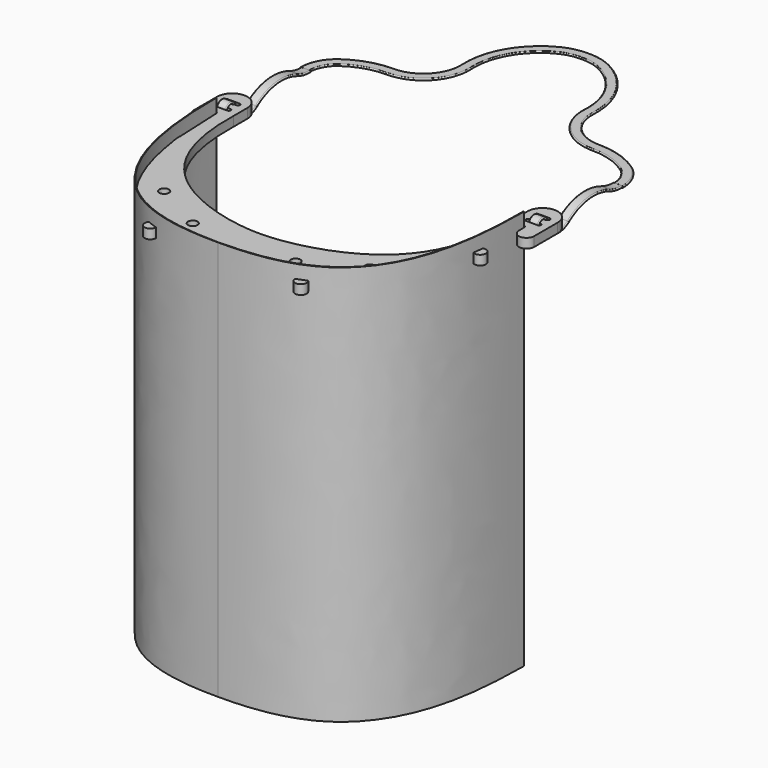
from build123d import *

# Parameters (mm, degrees)
PAD002_DEPTH    = 210
PAD_DEPTH       = 5
POCKET_DEPTH    = 5.001
SKETCH137_R     = 3
PAD001_DEPTH    = 5
SKETCH_R        = 2.5
POCKET001_DEPTH = 5.001


with BuildPart() as body002:
    # Sketch140 → Pad002 (new body)
    with BuildSketch(Plane.XY):
        with BuildLine():
            Line((-81, 99.342728), (-80.626823, 99.342728))
            add(Edge.make_bspline(
                [(-80.626823, 99.342728), (-80.850729, 69.137091), (-77.239233, 38.134273), (-65.453101, 12.273247), (-44.560585, 0), (0, -0.267526)],
                knots=[0, 0, 0, 0, 0, 0, 1, 1, 1, 1, 1, 1], degree=5))
            Line((0, -0.267526), (0, -0.467526))
            add(Edge.make_bspline(
                [(-81, 99.342728), (-80.7194, 75), (-76.49971, 47.584915), (-65, 24), (-48.451324, 8), (-24.26185, 0.239096), (-7.207305, -0.527014), (0, -0.467526)],
                knots=[0, 0, 0, 0, 0.2, 0.4, 0.6, 0.8, 1, 1, 1, 1], degree=3))
        make_face()
    extrude(amount=-PAD002_DEPTH)


with BuildPart() as body002_1:
    # Body002 placement: moved
    add(body002.part.moved(Location((0, 0, 12))))


with BuildPart() as fusion001:
    # Part__Mirroring001: instance of Body002
    add(body002_1.part.mirror(Plane(origin=(0, 0, 0), x_dir=(0, -1, 0), z_dir=(1, 0, 0))))

    # Fusion001: union Body002
    add(body002_1.part)


with BuildPart() as body:
    # Sketch135 → Pad (new body)
    with BuildSketch(Plane.XY):
        with BuildLine():
            add(Edge.make_bspline(
                [(-73.5, 101.839707), (-74.771, 49.44), (-49.529, 37.339707), (-22.686, 26.780106), (0, 26.839707)],
                knots=[0, 0, 0, 0, 0, 1, 1, 1, 1, 1], degree=4))
            Line((0, 26.839707), (0, 0))
            add(Edge.make_bspline(
                [(0, 0), (-24.669, -0.204), (-39, 6.04)],
                knots=[0, 0, 0, 1, 1, 1], degree=2))
            add(Edge.make_bspline(
                [(-39, 6.04), (-72.6, 18.986), (-79.11, 71.198)],
                knots=[0, 0, 0, 1, 1, 1], degree=2))
            add(Edge.make_bspline(
                [(-79.11, 71.198), (-80.407, 98.996)],
                knots=[0, 0, 1, 1], degree=1))
            Line((-80.407, 98.996), (-80.407, 99.34))
            ThreePointArc((-80.407, 99.34), (-80.907, 99.84), (-81.407, 99.34))
            Line((-81.407, 99.34), (-81.407, 95.34))
            ThreePointArc((-81.407, 95.34), (-85.407, 91.34), (-89.407, 95.34))
            Line((-89.407, 95.34), (-89.407, 110.839707))
            ThreePointArc((-89.407, 110.839707), (-81.4535, 118.793207), (-73.5, 110.839707))
            Line((-73.5, 110.839707), (-73.5, 101.839707))
        make_face()
    extrude(amount=PAD_DEPTH)

    # Sketch136 (on Face14 of Pad) → Pocket (cut, through all)
    with BuildSketch(Plane.XY.offset(5)):
        with BuildLine():
            ThreePointArc((-84.4535, 111.839707), (-85.4535, 110.839707), (-84.4535, 109.839707))
            Line((-84.4535, 109.839707), (-78.4535, 109.839707))
            ThreePointArc((-78.4535, 109.839707), (-77.4535, 110.839707), (-78.4535, 111.839707))
            Line((-84.4535, 111.839707), (-78.4535, 111.839707))
        make_face()
        with BuildLine():
            ThreePointArc((-84.4535, 105.839707), (-85.4535, 104.839707), (-84.4535, 103.839707))
            Line((-84.4535, 103.839707), (-78.4535, 103.839707))
            ThreePointArc((-78.4535, 103.839707), (-77.4535, 104.839707), (-78.4535, 105.839707))
            Line((-84.4535, 105.839707), (-78.4535, 105.839707))
        make_face()
    extrude(amount=-POCKET_DEPTH, mode=Mode.SUBTRACT)

    # Sketch137 (on Face5 of Pocket) → Pad001 (join)
    with BuildSketch(Plane.XY.offset(5)):
        with Locations((-39.549752, 4.644374)):
            Circle(SKETCH137_R)
        with Locations((-80.589428, 70.950429)):
            Circle(SKETCH137_R)
    extrude(amount=-PAD001_DEPTH)

    # Sketch (on Face23 of Pad001) → Pocket001 (cut, through all)
    with BuildSketch(Plane.XY.offset(5)):
        with Locations((-27, 16.839707)):
            Circle(SKETCH_R)
        with Locations((-54, 31.839707)):
            Circle(SKETCH_R)
    extrude(amount=-POCKET001_DEPTH, mode=Mode.SUBTRACT)


with BuildPart() as fusion:
    # Part__Mirroring: instance of Body
    add(body.part.mirror(Plane(origin=(0, 0, 0), x_dir=(0, -1, 0), z_dir=(1, 0, 0))))

    # Fusion: union Body
    add(body.part)


with BuildPart() as body003:
    # AdditivePipe: sweep along a path in Sketch141
    with BuildLine(Plane.YZ.offset(-82)) as additivepipe_path:
        Line((104.5, -3.5), (104.5, 3.5))
        ThreePointArc((104.5, 3.5), (107.5, 6.5), (110.5, 3.5))
        Line((110.5, 3.5), (110.5, 0.299847))
        ThreePointArc((110.5, 0.299847), (110.872818, -1.164335), (111.900472, -2.271921))
        ThreePointArc((111.900472, -2.271921), (118.190814, -3.992984), (124.326369, -1.782683))
        ThreePointArc((124.326369, -1.782683), (137.427127, 3.583211), (151.449307, 1.63356))
        ThreePointArc((151.449307, 1.63356), (155.472763, 0.39361), (159.664511, 0))
    # Sketch143 → AdditivePipe (sweep)
    with BuildSketch(Plane.XY):
        with BuildLine():
            ThreePointArc((-83.890842, 105.010963), (-84.390842, 104.510963), (-83.890842, 104.010963))
            Line((-83.890842, 104.010963), (-79.890842, 104.010963))
            ThreePointArc((-79.890842, 104.010963), (-79.390842, 104.510963), (-79.890842, 105.010963))
            Line((-83.890842, 105.010963), (-79.890842, 105.010963))
        make_face()
    sweep(path=additivepipe_path.line)

    # AdditivePipe001: sweep along a path in Sketch142
    with BuildLine(Plane.XY) as additivepipe001_path:
        ThreePointArc((-82, 159.645488), (-80.169117, 167.194495), (-75.083323, 173.065981))
        ThreePointArc((-75.083323, 173.065981), (-65.082635, 178.064397), (-54.031966, 179.761635))
        ThreePointArc((-54.031966, 179.761635), (-37.934001, 186.62925), (-31.85419, 203.04097))
        ThreePointArc((-31.85419, 203.04097), (-26.93923, 223.335435), (-11.728597, 237.641335))
        ThreePointArc((-11.728597, 237.641335), (-6.026164, 239.678215), (0, 240.271477))
    # Sketch144 → AdditivePipe001 (sweep)
    with BuildSketch(Plane.YZ):
        with BuildLine():
            ThreePointArc((238.5, 0.5), (238, 0), (238.5, -0.5))
            Line((238.5, -0.5), (242.5, -0.5))
            ThreePointArc((242.5, -0.5), (243, 0), (242.5, 0.5))
            Line((238.5, 0.5), (242.5, 0.5))
        make_face()
    sweep(path=additivepipe001_path.line)


with BuildPart() as fusion002:
    # Part__Mirroring002: instance of Body003
    add(body003.part.mirror(Plane(origin=(0, 0, 0), x_dir=(0, -1, 0), z_dir=(1, 0, 0))))

    # Fusion002: union Body003
    add(body003.part)


solid = Compound([fusion001.part, fusion.part, fusion002.part])
